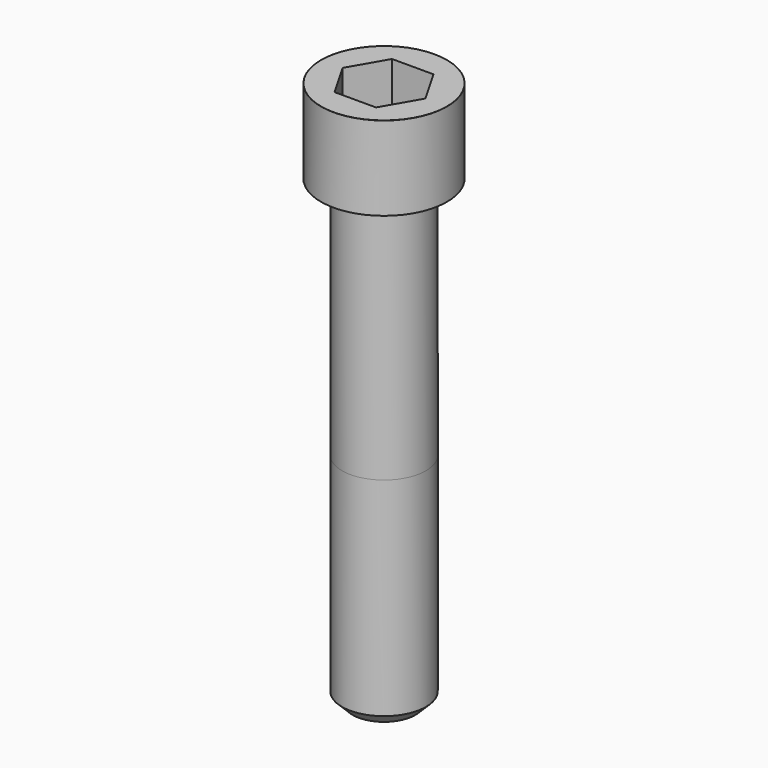
from build123d import *

# Parameters (mm, degrees)
POCKET_DEPTH = 17.1


with BuildPart() as part:
    # Sketch → Revolve (revolve)
    with BuildSketch(Plane.YZ):
        with BuildLine():
            Line((9.999, 0), (15, 0))
            Line((15, 0), (15, 19.97229))
            ThreePointArc((15, 19.97229), (14.991884, 19.991884), (14.97229, 20))
            Line((14.97229, 20), (0, 20))
            Line((0, -110), (0, 20))
            Line((7.5, -110), (0, -110))
            Line((10, -107.5), (7.5, -110))
            Line((10, -58), (10, -107.5))
            Line((9.999, 0), (10, -58))
        make_face()
    revolve(axis=Axis((0, 0, 0), (0, 0, 1)))

    # Sketch001 → Pocket (cut)
    with BuildSketch(Plane.XY.offset(20)):
        Polygon((9.87269, 0), (4.936345, 8.55), (-4.936345, 8.55), (-9.87269, 0), (-4.936345, -8.55), (4.936345, -8.55), align=None)
    extrude(amount=-POCKET_DEPTH, mode=Mode.SUBTRACT)


solid = part.part
